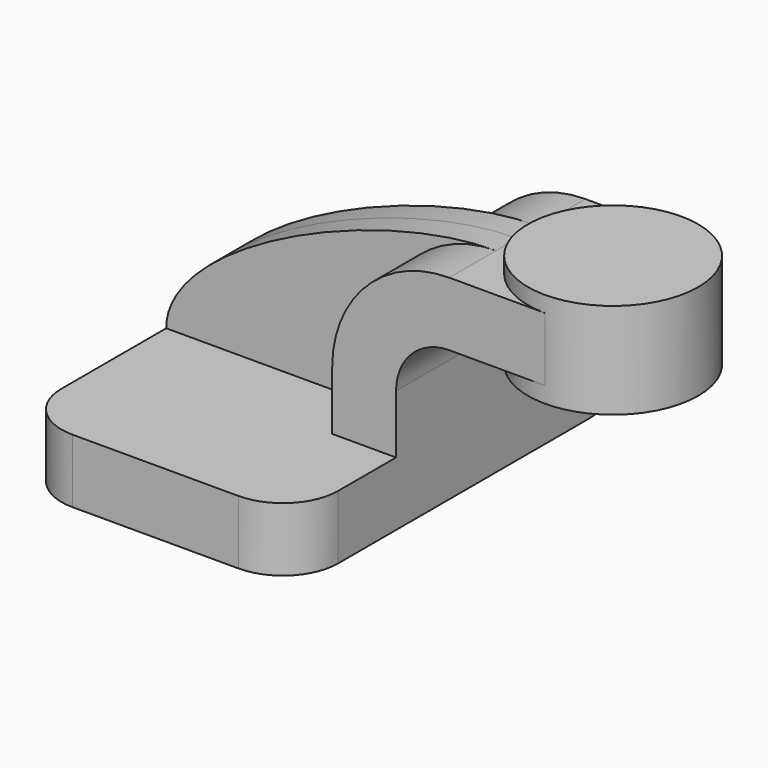
from build123d import *

# Parameters (mm, degrees)
F1_DEPTH = 63.5
F0_W     = 25.4
F0_H     = 19.05
F2_DEPTH = 25.4
F3_DEPTH = 7.9375
F5_R     = 16.51


with BuildPart() as f1:
    # F0 (on Front) → F1 (new body, symmetric)
    with BuildSketch(Plane.XZ):
        Polygon((22.225, 9.525), (-41.275, 9.525), (-41.275, -9.525), (41.275, -9.525), (41.275, 9.525), align=None)
    extrude(amount=F1_DEPTH, both=True)

    # F0 (on Front) → F2 (join, symmetric)
    with BuildSketch(Plane.XZ):
        with BuildLine():
            Line((22.225, 27.0002), (22.225, 9.525))
            Line((22.225, 9.525), (41.275, 9.525))
            Line((41.275, 9.525), (41.275, 27.0002))
            ThreePointArc((41.275, 27.0002), (45.9246798487, 38.2255201513), (57.15, 42.8752))
            Line((57.15, 42.8752), (60.325, 42.8752))
            Line((60.325, 42.8752), (60.325, 61.9252))
            Line((60.325, 61.9252), (57.15, 61.9252))
            ThreePointArc((57.15, 61.9252), (32.4542956671, 51.6959043329), (22.225, 27.0002))
        make_face()
        with Locations((73.025, 52.4002)):
            Rectangle(F0_W, F0_H)
    extrude(amount=F2_DEPTH, both=True)

    # F0 (on Front) → F3 (join, symmetric)
    with BuildSketch(Plane.XZ):
        with BuildLine():
            add(Edge.make_bspline(
                [(57.15, 61.9252), (20.7065949253, 61.9252), (-41.275, 33.7306511851), (-41.275, 9.525)],
                knots=[0, 0, 0, 0, 111.5045361635, 111.5045361635, 111.5045361635, 111.5045361635], degree=3))
            Line((-41.275, 9.525), (22.225, 9.525))
            Line((22.225, 9.525), (22.225, 27.0002))
            ThreePointArc((22.225, 27.0002), (32.4542956671, 51.6959043329), (57.15, 61.9252))
        make_face()
    extrude(amount=F3_DEPTH, both=True)

    # F5
    f5_edges = [f1.edges().sort_by_distance(p)[0] for p in [
        (-41.275, -63.5, 0),
        (41.275, -63.5, 0),
        (41.275, 63.5, 0),
        (-41.275, 63.5, 0),
    ]]
    fillet(f5_edges, radius=F5_R)


with BuildPart() as f4:
    # F0 (on Front) → F4 (revolve)
    with BuildSketch(Plane.XZ):
        Polygon((85.725, 66.675), (85.725, 61.9252), (85.725, 42.8752), (85.725, 38.1), (111.125, 38.1), (111.125, 66.675), align=None)
    revolve(axis=Axis((85.725, 0, 52.3875), (0, 0, -1)))


solid = Compound([f1.part, f4.part])
